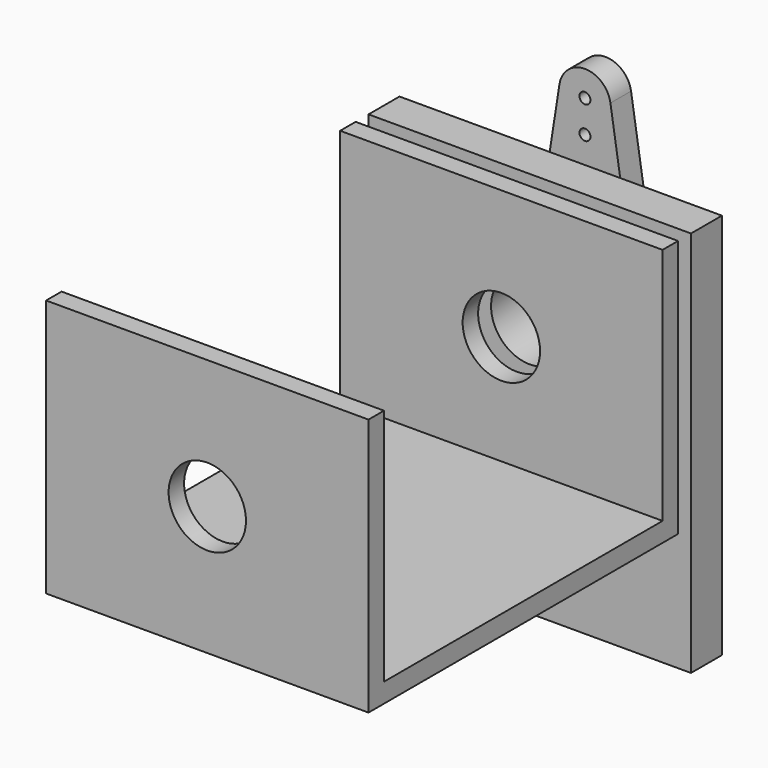
from build123d import *

# Parameters (mm, degrees)
F0_R     = 0.425
F1_DEPTH = 2
F0_R_2   = 2.75
F2_DEPTH = 4
F3_W     = 30
F3_H     = 20
F4_DEPTH = 12.5
F5_T     = -1.5
F3_W_2   = 3
F3_H_2   = 30
F6_DEPTH = 12.5
F7_R     = 3
F8_DEPTH = 38.6021898518


with BuildPart() as f1:
    # F0 (on Front) → F1 (new body)
    with BuildSketch(Plane.XZ):
        with BuildLine():
            ThreePointArc((-3.952379255, 0.6153846154), (0, 4), (3.952379255, 0.6153846154))
            Line((3.952379255, 0.6153846154), (1.9761896275, 13.3076923077))
            ThreePointArc((1.9761896275, 13.3076923077), (1.9940385221, 13.1543061001), (2, 13))
            ThreePointArc((2, 13), (-0.1543061001, 11.0059614779), (-1.9761896275, 13.3076923077))
            Line((-1.9761896275, 13.3076923077), (-3.952379255, 0.6153846154))
        make_face()
        with Locations((0, 8)):
            Circle(F0_R, mode=Mode.SUBTRACT)
        with Locations((0, 10.5)):
            Circle(F0_R, mode=Mode.SUBTRACT)
        with BuildLine():
            ThreePointArc((2, 13), (1.9940385221, 13.1543061001), (1.9761896275, 13.3076923077))
            ThreePointArc((1.9761896275, 13.3076923077), (0, 15), (-1.9761896275, 13.3076923077))
            ThreePointArc((-1.9761896275, 13.3076923077), (-0.1543061001, 11.0059614779), (2, 13))
        make_face()
        with Locations((0, 13)):
            Circle(F0_R, mode=Mode.SUBTRACT)
    extrude(amount=F1_DEPTH)

    # F0 (on Front) → F2 (join)
    with BuildSketch(Plane.XZ):
        with BuildLine():
            ThreePointArc((-3.952379255, 0.6153846154), (-0.3086122001, -3.9880770441), (4, 0))
            ThreePointArc((4, 0), (3.9880770441, 0.3086122001), (3.952379255, 0.6153846154))
            ThreePointArc((3.952379255, 0.6153846154), (0, 4), (-3.952379255, 0.6153846154))
        make_face()
        Circle(F0_R_2, mode=Mode.SUBTRACT)
    extrude(amount=F2_DEPTH)


with BuildPart() as f4:
    # F3 (on Right) → F4 (new body, symmetric)
    with BuildSketch(Plane.YZ):
        with Locations((-23.6011898518, 0)):
            Rectangle(F3_W, F3_H)
    extrude(amount=F4_DEPTH, both=True)

    # F5
    f5_openings = [f4.faces().sort_by_distance(p)[0] for p in [
        (12.5, -23.60119, 0),
        (0, -23.60119, 10),
        (-12.5, -23.60119, 0),
    ]]
    offset(amount=F5_T, openings=f5_openings)


with BuildPart() as f6:
    # F3 (on Right) → F6 (new body, symmetric)
    with BuildSketch(Plane.YZ):
        with Locations((-5.8492033407, -5)):
            Rectangle(F3_W_2, F3_H_2)
    extrude(amount=F6_DEPTH, both=True)


with BuildPart() as f8:
    # F7 (on face) → F8 (new body, through all)
    with BuildSketch(Plane.XZ.offset(38.6011898518)):
        Circle(F7_R)
    extrude(amount=-F8_DEPTH)


with BuildPart() as f4_1:
    add(f4.part)

    # F9: cut F8
    add(f8.part, mode=Mode.SUBTRACT)


with BuildPart() as f6_1:
    add(f6.part)

    # F9: cut F8
    add(f8.part, mode=Mode.SUBTRACT)


solid = Compound([f1.part, f4_1.part, f6_1.part])
